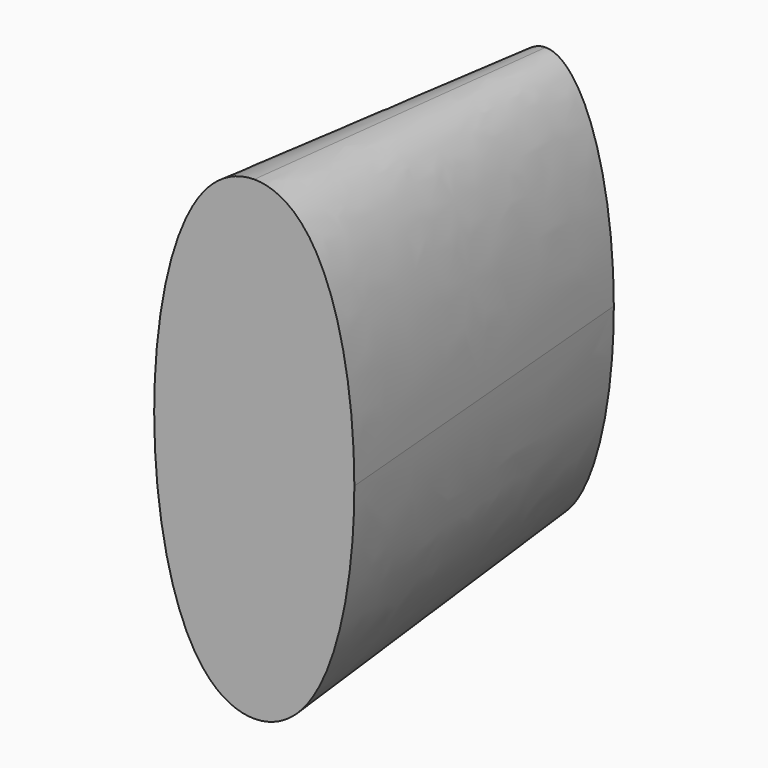
from build123d import *

# Parameters (mm, degrees)
F1_DEPTH = 76.2
F1_TAPER = -5


with BuildPart() as f1:
    # F0 (on Front) → F1 (new body)
    with BuildSketch(Plane.XZ):
        with BuildLine():
            add(Edge.make_bspline(
                [(0, 43.0057570338), (-24.7252317864, 43.0057570338), (-12.3626158932, -21.5028785169), (0, -86.0115140676), (12.3626158932, -21.5028785169), (24.7252317864, 43.0057570338), (0, 43.0057570338)],
                knots=[0, 0, 0, 2.0943951024, 2.0943951024, 4.1887902048, 4.1887902048, 6.2831853072, 6.2831853072, 6.2831853072], degree=2, weights=[1, 0.5, 1, 0.5, 1, 0.5, 1]))
        make_face()
    extrude(amount=F1_DEPTH, taper=F1_TAPER)


with BuildPart() as f1_1:
    # F2: moved
    add(f1.part.moved(Location((0, 38.1, 0))))


solid = f1_1.part
